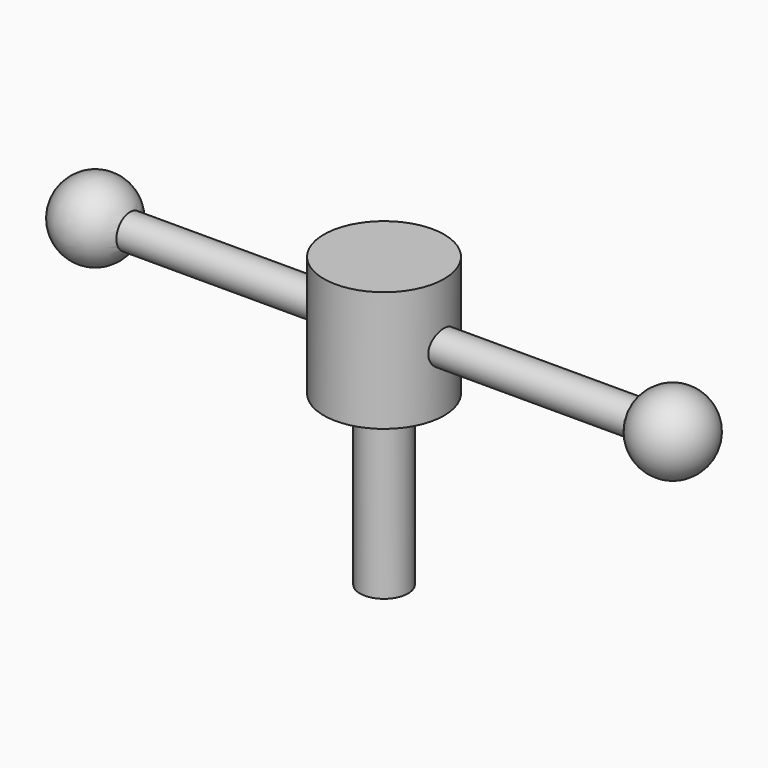
from build123d import *

# Parameters (mm, degrees)
F0_R     = 15.875
F1_DEPTH = 31.75
F2_R     = 6.35
F3_DEPTH = 44.45
F4_R     = 4.445
F5_DEPTH = 76.2


with BuildPart() as f1:
    # F0 (on Top) → F1 (new body)
    with BuildSketch(Plane.XY):
        Circle(F0_R)
    extrude(amount=-F1_DEPTH)

    # F2 (on face) → F3 (join)
    with BuildSketch(Plane(origin=(0, 0, -31.75), x_dir=(1, 0, 0), z_dir=(0, 0, -1))):
        Circle(F2_R)
    extrude(amount=F3_DEPTH)

    # F4 (on Right) → F5 (join, symmetric)
    with BuildSketch(Plane.YZ):
        with Locations((0, -15.875)):
            Circle(F4_R)
    extrude(amount=F5_DEPTH, both=True)

    # F6 (on face) → F7 (revolve)
    with BuildSketch(Plane(origin=(-76.2, 0, 0), x_dir=(0, -1, 0), z_dir=(-1, 0, 0))):
        with BuildLine():
            Line((0, -5.715), (0, -15.875))
            Line((0, -15.875), (0, -26.035))
            ThreePointArc((0, -26.035), (10.16, -15.875), (0, -5.715))
        make_face()
    revolve(axis=Axis((-76.2, 0, -10.795), (0, 0, 1)))

    # F8 (on face) → F9 (revolve)
    with BuildSketch(Plane.YZ.offset(76.2)):
        with BuildLine():
            Line((0, -5.715), (0, -15.875))
            Line((0, -15.875), (0, -26.035))
            ThreePointArc((0, -26.035), (10.16, -15.875), (0, -5.715))
        make_face()
    revolve(axis=Axis((76.2, 0, -10.795), (0, 0, 1)))


solid = f1.part
